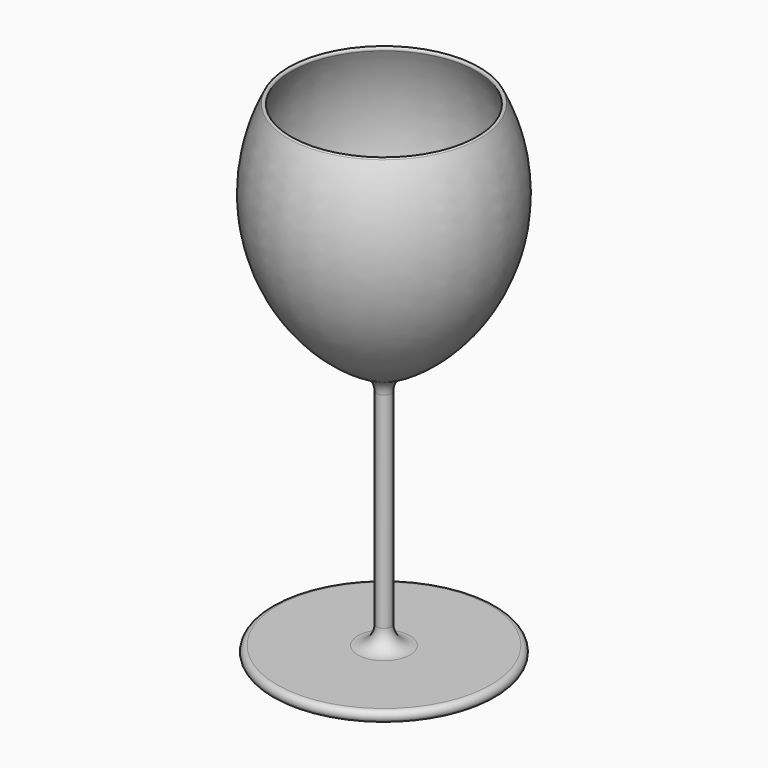
from build123d import *


with BuildPart() as f1:
    # F0 (on Front) → F1 (revolve)
    with BuildSketch(Plane.XZ):
        with BuildLine():
            ThreePointArc((0, 0), (-12.9290252202, 13.4035362064), (-11.9360446777, 32))
            ThreePointArc((-11.9360446777, 32), (-11.9346500209, 32.4077565918), (-12.3334322125, 32.3226675391))
            ThreePointArc((-12.3334322125, 32.3226675391), (-13.6980833247, 14.0839633279), (-1.7392723975, 0.2456308716))
            ThreePointArc((-1.7392723975, 0.2456308716), (-0.7158315018, -0.6908118408), (-0.3370212221, -2.0253001296))
            Line((-0.3370212221, -2.0253001296), (-0.3370212221, -29.860971949))
            ThreePointArc((-0.3370212221, -29.860971949), (-1.0809699979, -31.6570231732), (-2.8770212221, -32.400971949))
            Line((-2.8770212221, -32.400971949), (-13.8370212221, -32.400971949))
            ThreePointArc((-13.8370212221, -32.400971949), (-14.5625456285, -33.350657147), (-13.4555206881, -33.800971949))
            Line((-13.4555206881, -33.800971949), (-0.8370212221, -33.800971949))
            add(Edge.make_bspline(
                [(-0.8370212221, -33.800971949), (-0.2115213472, -33.6562444209), (-0.1547193722, -32.5669844388), (0.6629787779, -32.400971949)],
                knots=[0, 0, 0, 0, 2.0518284529, 2.0518284529, 2.0518284529, 2.0518284529], degree=3))
            Line((0.6629787779, -32.400971949), (0.6629787779, -0.2493000357))
            add(Edge.make_bspline(
                [(0, 0), (0.3696738277, -0.1547939755), (0.0592081378, -0.0604010784), (0.6629787779, -0.2493000357)],
                knots=[0, 0, 0, 0, 0.7083017491, 0.7083017491, 0.7083017491, 0.7083017491], degree=3))
        make_face()
    revolve(axis=Axis((0.6629787779, 0, -16.3251359924), (0, 0, -1)))


solid = f1.part
